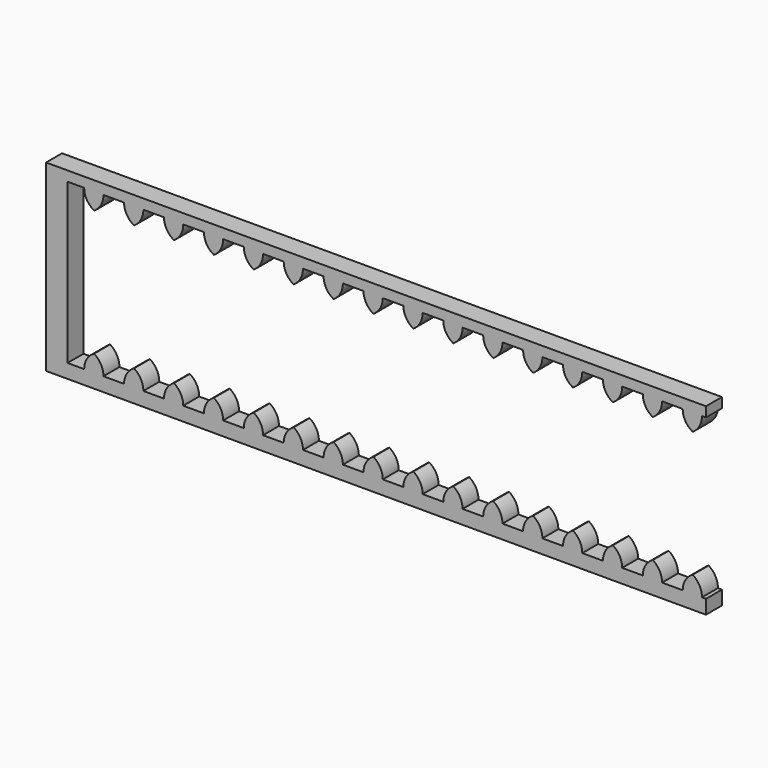
from build123d import *

# Parameters (mm, degrees)
F1_DEPTH = 6.35


with BuildPart() as f1:
    # F0 (on Front) → F1 (new body)
    with BuildSketch(Plane.XZ):
        Polygon((-100.167322, -14.499216), (-100.167322, 36.300784), (-94.868163, 36.300784), (-88.733239, 36.300784), (-82.168163, 36.300784), (-76.033239, 36.300784), (-69.468163, 36.300784), (-63.333239, 36.300784), (-56.768163, 36.300784), (-50.633239, 36.300784), (-44.068163, 36.300784), (-37.933239, 36.300784), (-31.368163, 36.300784), (-25.233239, 36.300784), (-18.668163, 36.300784), (-12.533239, 36.300784), (-5.968163, 36.300784), (0.166761, 36.300784), (6.731837, 36.300784), (12.866761, 36.300784), (19.431837, 36.300784), (25.566761, 36.300784), (32.131837, 36.300784), (38.266761, 36.300784), (44.831837, 36.300784), (50.966761, 36.300784), (57.531837, 36.300784), (63.666761, 36.300784), (70.231837, 36.300784), (76.366761, 36.300784), (82.931837, 36.300784), (89.066761, 36.300784), (95.631837, 36.300784), (101.766761, 36.300784), (103.032678, 36.300784), (103.032678, 39.458872), (-106.993854, 39.458872), (-106.993854, -18.961128), (103.032678, -18.961128), (103.032678, -14.499216), (101.766761, -14.499216), (95.631837, -14.499216), (89.066761, -14.499216), (82.931837, -14.499216), (76.366761, -14.499216), (70.231837, -14.499216), (63.666761, -14.499216), (57.531837, -14.499216), (50.966761, -14.499216), (44.831837, -14.499216), (38.266761, -14.499216), (32.131837, -14.499216), (25.566761, -14.499216), (19.431837, -14.499216), (12.866761, -14.499216), (6.731837, -14.499216), (0.166761, -14.499216), (-5.968163, -14.499216), (-12.533239, -14.499216), (-18.668163, -14.499216), (-25.233239, -14.499216), (-31.368163, -14.499216), (-37.933239, -14.499216), (-44.068163, -14.499216), (-50.633239, -14.499216), (-56.768163, -14.499216), (-63.333239, -14.499216), (-69.468163, -14.499216), (-76.033239, -14.499216), (-82.168163, -14.499216), (-88.733239, -14.499216), (-94.868163, -14.499216), align=None)
        with BuildLine():
            Line((-88.733239, 36.300784), (-94.868163, 36.300784))
            ThreePointArc((-94.868163, 36.300784), (-94.016162, 33.181807), (-91.696805, 30.92914))
            ThreePointArc((-91.696805, 30.92914), (-89.523277, 33.233322), (-88.733239, 36.300784))
        make_face()
        with BuildLine():
            Line((-76.033239, 36.300784), (-82.168163, 36.300784))
            ThreePointArc((-82.168163, 36.300784), (-81.316162, 33.181807), (-78.996805, 30.92914))
            ThreePointArc((-78.996805, 30.92914), (-76.823277, 33.233322), (-76.033239, 36.300784))
        make_face()
        with BuildLine():
            Line((-63.333239, 36.300784), (-69.468163, 36.300784))
            ThreePointArc((-69.468163, 36.300784), (-68.616162, 33.181807), (-66.296805, 30.92914))
            ThreePointArc((-66.296805, 30.92914), (-64.123277, 33.233322), (-63.333239, 36.300784))
        make_face()
        with BuildLine():
            Line((-50.633239, 36.300784), (-56.768163, 36.300784))
            ThreePointArc((-56.768163, 36.300784), (-55.916162, 33.181807), (-53.596805, 30.92914))
            ThreePointArc((-53.596805, 30.92914), (-51.423277, 33.233322), (-50.633239, 36.300784))
        make_face()
        with BuildLine():
            Line((-37.933239, 36.300784), (-44.068163, 36.300784))
            ThreePointArc((-44.068163, 36.300784), (-43.216162, 33.181807), (-40.896805, 30.92914))
            ThreePointArc((-40.896805, 30.92914), (-38.723277, 33.233322), (-37.933239, 36.300784))
        make_face()
        with BuildLine():
            Line((-25.233239, 36.300784), (-31.368163, 36.300784))
            ThreePointArc((-31.368163, 36.300784), (-30.516162, 33.181807), (-28.196805, 30.92914))
            ThreePointArc((-28.196805, 30.92914), (-26.023277, 33.233322), (-25.233239, 36.300784))
        make_face()
        with BuildLine():
            Line((-12.533239, 36.300784), (-18.668163, 36.300784))
            ThreePointArc((-18.668163, 36.300784), (-17.816162, 33.181807), (-15.496805, 30.92914))
            ThreePointArc((-15.496805, 30.92914), (-13.323277, 33.233322), (-12.533239, 36.300784))
        make_face()
        with BuildLine():
            Line((0.166761, 36.300784), (-5.968163, 36.300784))
            ThreePointArc((-5.968163, 36.300784), (-5.116162, 33.181807), (-2.796805, 30.92914))
            ThreePointArc((-2.796805, 30.92914), (-0.623277, 33.233322), (0.166761, 36.300784))
        make_face()
        with BuildLine():
            Line((12.866761, 36.300784), (6.731837, 36.300784))
            ThreePointArc((6.731837, 36.300784), (7.583838, 33.181807), (9.903195, 30.92914))
            ThreePointArc((9.903195, 30.92914), (12.076723, 33.233322), (12.866761, 36.300784))
        make_face()
        with BuildLine():
            Line((25.566761, 36.300784), (19.431837, 36.300784))
            ThreePointArc((19.431837, 36.300784), (20.283838, 33.181807), (22.603195, 30.92914))
            ThreePointArc((22.603195, 30.92914), (24.776723, 33.233322), (25.566761, 36.300784))
        make_face()
        with BuildLine():
            Line((38.266761, 36.300784), (32.131837, 36.300784))
            ThreePointArc((32.131837, 36.300784), (32.983838, 33.181807), (35.303195, 30.92914))
            ThreePointArc((35.303195, 30.92914), (37.476723, 33.233322), (38.266761, 36.300784))
        make_face()
        with BuildLine():
            Line((50.966761, 36.300784), (44.831837, 36.300784))
            ThreePointArc((44.831837, 36.300784), (45.683838, 33.181807), (48.003195, 30.92914))
            ThreePointArc((48.003195, 30.92914), (50.176723, 33.233322), (50.966761, 36.300784))
        make_face()
        with BuildLine():
            Line((63.666761, 36.300784), (57.531837, 36.300784))
            ThreePointArc((57.531837, 36.300784), (58.383838, 33.181807), (60.703195, 30.92914))
            ThreePointArc((60.703195, 30.92914), (62.876723, 33.233322), (63.666761, 36.300784))
        make_face()
        with BuildLine():
            Line((76.366761, 36.300784), (70.231837, 36.300784))
            ThreePointArc((70.231837, 36.300784), (71.083838, 33.181807), (73.403195, 30.92914))
            ThreePointArc((73.403195, 30.92914), (75.576723, 33.233322), (76.366761, 36.300784))
        make_face()
        with BuildLine():
            Line((89.066761, 36.300784), (82.931837, 36.300784))
            ThreePointArc((82.931837, 36.300784), (83.783838, 33.181807), (86.103195, 30.92914))
            ThreePointArc((86.103195, 30.92914), (88.276723, 33.233322), (89.066761, 36.300784))
        make_face()
        with BuildLine():
            Line((101.766761, 36.300784), (95.631837, 36.300784))
            ThreePointArc((95.631837, 36.300784), (96.483838, 33.181807), (98.803195, 30.92914))
            ThreePointArc((98.803195, 30.92914), (100.976723, 33.233322), (101.766761, 36.300784))
        make_face()
        with BuildLine():
            ThreePointArc((98.803195, -9.127571), (96.483838, -11.380239), (95.631837, -14.499216))
            Line((95.631837, -14.499216), (101.766761, -14.499216))
            ThreePointArc((101.766761, -14.499216), (100.976723, -11.431754), (98.803195, -9.127571))
        make_face()
        with BuildLine():
            ThreePointArc((86.103195, -9.127571), (83.783838, -11.380239), (82.931837, -14.499216))
            Line((82.931837, -14.499216), (89.066761, -14.499216))
            ThreePointArc((89.066761, -14.499216), (88.276723, -11.431754), (86.103195, -9.127571))
        make_face()
        with BuildLine():
            ThreePointArc((73.403195, -9.127571), (71.083838, -11.380239), (70.231837, -14.499216))
            Line((70.231837, -14.499216), (76.366761, -14.499216))
            ThreePointArc((76.366761, -14.499216), (75.576723, -11.431754), (73.403195, -9.127571))
        make_face()
        with BuildLine():
            ThreePointArc((60.703195, -9.127571), (58.383838, -11.380239), (57.531837, -14.499216))
            Line((57.531837, -14.499216), (63.666761, -14.499216))
            ThreePointArc((63.666761, -14.499216), (62.876723, -11.431754), (60.703195, -9.127571))
        make_face()
        with BuildLine():
            ThreePointArc((48.003195, -9.127571), (45.683838, -11.380239), (44.831837, -14.499216))
            Line((44.831837, -14.499216), (50.966761, -14.499216))
            ThreePointArc((50.966761, -14.499216), (50.176723, -11.431754), (48.003195, -9.127571))
        make_face()
        with BuildLine():
            ThreePointArc((35.303195, -9.127571), (32.983838, -11.380239), (32.131837, -14.499216))
            Line((32.131837, -14.499216), (38.266761, -14.499216))
            ThreePointArc((38.266761, -14.499216), (37.476723, -11.431754), (35.303195, -9.127571))
        make_face()
        with BuildLine():
            ThreePointArc((22.603195, -9.127571), (20.283838, -11.380239), (19.431837, -14.499216))
            Line((19.431837, -14.499216), (25.566761, -14.499216))
            ThreePointArc((25.566761, -14.499216), (24.776723, -11.431754), (22.603195, -9.127571))
        make_face()
        with BuildLine():
            ThreePointArc((9.903195, -9.127571), (7.583838, -11.380239), (6.731837, -14.499216))
            Line((6.731837, -14.499216), (12.866761, -14.499216))
            ThreePointArc((12.866761, -14.499216), (12.076723, -11.431754), (9.903195, -9.127571))
        make_face()
        with BuildLine():
            ThreePointArc((-2.796805, -9.127571), (-5.116162, -11.380239), (-5.968163, -14.499216))
            Line((-5.968163, -14.499216), (0.166761, -14.499216))
            ThreePointArc((0.166761, -14.499216), (-0.623277, -11.431754), (-2.796805, -9.127571))
        make_face()
        with BuildLine():
            ThreePointArc((-15.496805, -9.127571), (-17.816162, -11.380239), (-18.668163, -14.499216))
            Line((-18.668163, -14.499216), (-12.533239, -14.499216))
            ThreePointArc((-12.533239, -14.499216), (-13.323277, -11.431754), (-15.496805, -9.127571))
        make_face()
        with BuildLine():
            ThreePointArc((-28.196805, -9.127571), (-30.516162, -11.380239), (-31.368163, -14.499216))
            Line((-31.368163, -14.499216), (-25.233239, -14.499216))
            ThreePointArc((-25.233239, -14.499216), (-26.023277, -11.431754), (-28.196805, -9.127571))
        make_face()
        with BuildLine():
            ThreePointArc((-40.896805, -9.127571), (-43.216162, -11.380239), (-44.068163, -14.499216))
            Line((-44.068163, -14.499216), (-37.933239, -14.499216))
            ThreePointArc((-37.933239, -14.499216), (-38.723277, -11.431754), (-40.896805, -9.127571))
        make_face()
        with BuildLine():
            ThreePointArc((-53.596805, -9.127571), (-55.916162, -11.380239), (-56.768163, -14.499216))
            Line((-56.768163, -14.499216), (-50.633239, -14.499216))
            ThreePointArc((-50.633239, -14.499216), (-51.423277, -11.431754), (-53.596805, -9.127571))
        make_face()
        with BuildLine():
            ThreePointArc((-66.296805, -9.127571), (-68.616162, -11.380239), (-69.468163, -14.499216))
            Line((-69.468163, -14.499216), (-63.333239, -14.499216))
            ThreePointArc((-63.333239, -14.499216), (-64.123277, -11.431754), (-66.296805, -9.127571))
        make_face()
        with BuildLine():
            ThreePointArc((-78.996805, -9.127571), (-81.316162, -11.380239), (-82.168163, -14.499216))
            Line((-82.168163, -14.499216), (-76.033239, -14.499216))
            ThreePointArc((-76.033239, -14.499216), (-76.823277, -11.431754), (-78.996805, -9.127571))
        make_face()
        with BuildLine():
            ThreePointArc((-91.696805, -9.127571), (-94.016162, -11.380239), (-94.868163, -14.499216))
            Line((-94.868163, -14.499216), (-88.733239, -14.499216))
            ThreePointArc((-88.733239, -14.499216), (-89.523277, -11.431754), (-91.696805, -9.127571))
        make_face()
    extrude(amount=F1_DEPTH)


with BuildPart() as f2_1:
    # F2: copy of F1
    add(f1.part)


solid = Compound([f1.part, f2_1.part])
